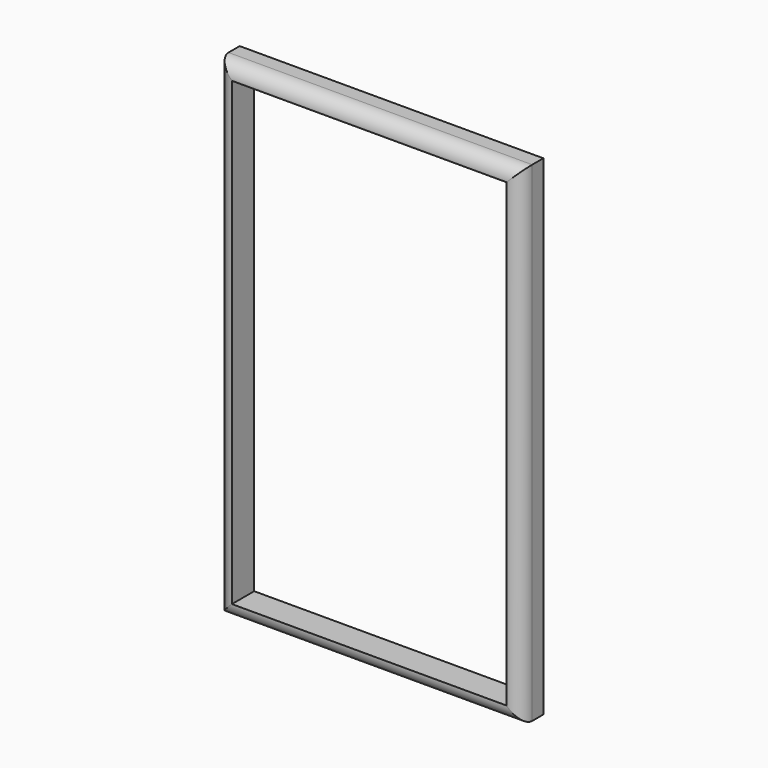
from build123d import *

# Parameters (mm, degrees)
F0_W     = 54.49918
F0_H     = 87.876662
F0_W_2   = 49.283944
F0_H_2   = 82.661428
F1_DEPTH = 5
F2_R     = 2.5


with BuildPart() as f1:
    # F0 (on Front) → F1 (new body)
    with BuildSketch(Plane.XZ):
        Rectangle(F0_W, F0_H)
        Rectangle(F0_W_2, F0_H_2, mode=Mode.SUBTRACT)
    extrude(amount=F1_DEPTH)

    # F2
    f2_edges = [f1.edges().sort_by_distance(p)[0] for p in [
        (27.24959, -5, 0),
        (0, -5, 43.938331),
        (-27.24959, -5, 0),
        (0, -5, -43.938331),
    ]]
    fillet(f2_edges, radius=F2_R)


solid = f1.part
